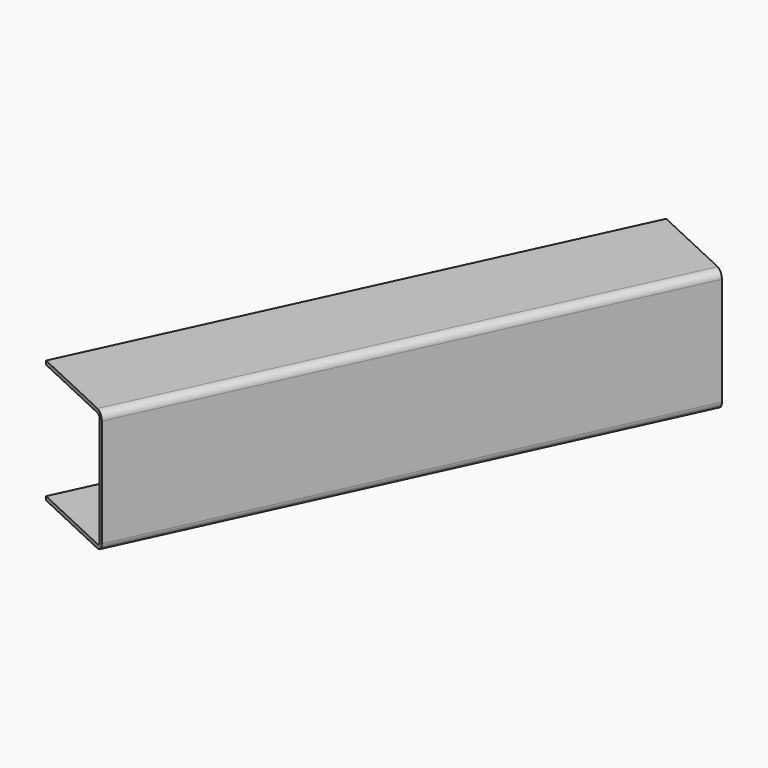
from build123d import *

# Parameters (mm, degrees)
F1_DEPTH = 430
F2_ANGLE = 25


with BuildPart() as f1:
    # F0 (on Front) → F1 (new body)
    with BuildSketch(Plane.XZ):
        with BuildLine():
            Line((-43.73349, 41.551889), (-43.73349, 38.551889))
            Line((-43.73349, 38.551889), (28.26651, 38.551889))
            ThreePointArc((28.26651, 38.551889), (30.38783, 37.673209), (31.26651, 35.551889))
            Line((31.26651, 35.551889), (31.26651, -50.448111))
            ThreePointArc((31.26651, -50.448111), (30.38783, -52.569431), (28.26651, -53.448111))
            Line((28.26651, -53.448111), (-43.73349, -53.448111))
            Line((-43.73349, -53.448111), (-43.73349, -56.448111))
            Line((-43.73349, -56.448111), (28.26651, -56.448111))
            ThreePointArc((28.26651, -56.448111), (32.509151, -54.690752), (34.26651, -50.448111))
            Line((34.26651, -50.448111), (34.26651, 35.551889))
            ThreePointArc((34.26651, 35.551889), (32.509151, 39.79453), (28.26651, 41.551889))
            Line((28.26651, 41.551889), (-43.73349, 41.551889))
        make_face()
    extrude(amount=-F1_DEPTH)


with BuildPart() as f1_1:
    # F2: moved
    add(f1.part.rotate(Axis((-43.73349, 0, 40.051889), (0, 0, -1)), F2_ANGLE))


solid = f1_1.part
